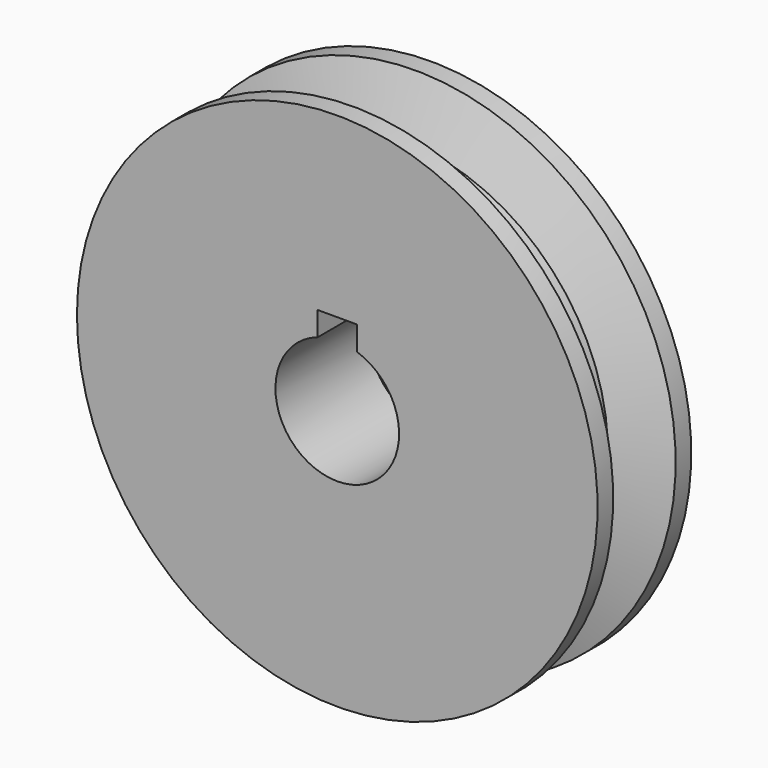
from build123d import *

# Parameters (mm, degrees)
F2_W     = 6
F2_H     = 9.412618
F3_DEPTH = 25


with BuildPart() as f1:
    # F0 (on Top) → F1 (revolve)
    with BuildSketch(Plane.XY):
        Polygon((-40, 0), (-9.5, 0), (-9.5, 18), (-40, 18), (-40, 15), (-32, 12), (-32, 6), (-40, 3), align=None)
    revolve(axis=Axis((0, 10.892909, 0), (0, 1, 0)))

    # F2 (on face) → F3 (cut)
    with BuildSketch(Plane(origin=(0, 18, 0), x_dir=(-1, 0, 0), z_dir=(0, 1, 0))):
        with Locations((0, 7.993691)):
            Rectangle(F2_W, F2_H)
    extrude(amount=-F3_DEPTH, mode=Mode.SUBTRACT)


solid = f1.part
